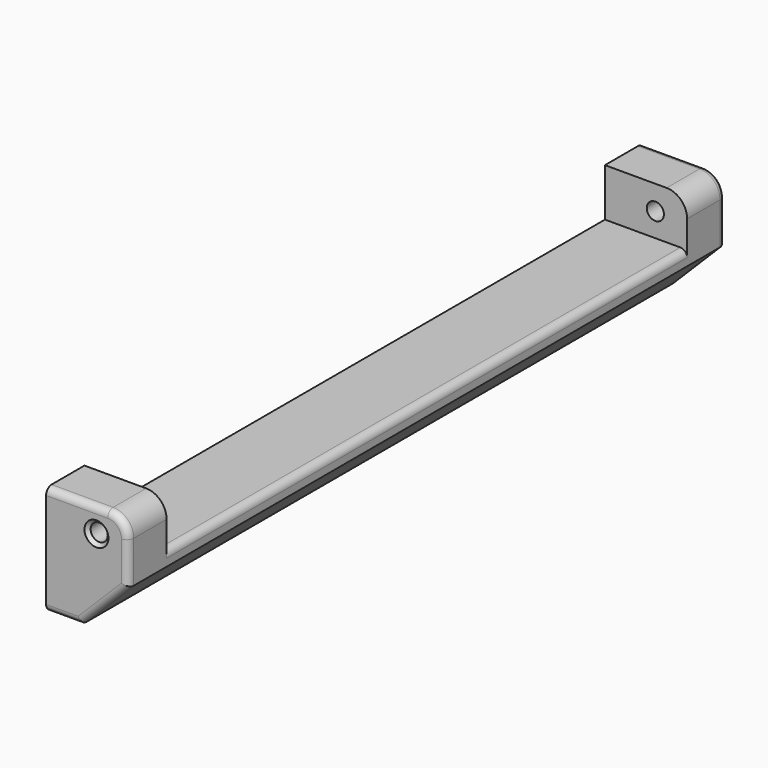
from build123d import *

# Parameters (mm, degrees)
PAD013_DEPTH            = 12
CHAMFER013_SIZE         = 6.9
FILLET028_R             = 1
FILLET027_R             = 3
FILLET029_R             = 1
SKETCH052_R             = 1.25
POCKET020_DEPTH         = 109.001
CHAMFER014_SIZE         = 0.5
FILLET031_R             = 1
BODY012_PLACEMENT_ANGLE = 180


with BuildPart() as part:
    # Sketch051 → Pad013 (new body)
    with BuildSketch(Plane.YZ.offset(37)):
        Polygon((-48, 6), (-41, 6), (-41, 13), (54, 13), (54, 6), (61, 6), (61, 22), (-48, 22), align=None)
    extrude(amount=PAD013_DEPTH)

    # Chamfer013
    chamfer013_edges = [part.edges().sort_by_distance(p)[0] for p in [
        (49, 6.5, 22),
    ]]
    chamfer(chamfer013_edges, length=CHAMFER013_SIZE)

    # Fillet028
    fillet028_edges = [part.edges().sort_by_distance(p)[0] for p in [
        (49, 6.5, 13),
    ]]
    fillet(fillet028_edges, radius=FILLET028_R)

    # Fillet027
    fillet027_edges = [part.edges().sort_by_distance(p)[0] for p in [
        (49, 57.5, 6),
        (49, -44.5, 6),
    ]]
    fillet(fillet027_edges, radius=FILLET027_R)

    # Fillet029
    fillet029_edges = [part.edges().sort_by_distance(p)[0] for p in [
        (41.5, 61, 6),
        (48.12132, 61, 6.87868),
        (49, 61, 12.05),
        (45.55, 61, 18.55),
        (39.55, 61, 22),
    ]]
    fillet(fillet029_edges, radius=FILLET029_R)

    # Sketch052 (on Face12 of Fillet029) → Pocket020 (cut, through all)
    with BuildSketch(Plane.ZX.offset(61)):
        with Locations((9.54001, 44.356239)):
            Circle(SKETCH052_R)
    extrude(amount=-POCKET020_DEPTH, mode=Mode.SUBTRACT)

    # Chamfer014
    chamfer014_edges = [part.edges().sort_by_distance(p)[0] for p in [
        (44.356239, 61, 8.29001),
        (44.356239, -48, 8.29001),
    ]]
    chamfer(chamfer014_edges, length=CHAMFER014_SIZE)

    # Fillet031
    fillet031_edges = [part.edges().sort_by_distance(p)[0] for p in [
        (41.5, -48, 6),
        (48.12132, -48, 6.87868),
        (49, -48, 12.05),
        (45.55, -48, 18.55),
        (39.55, -48, 22),
    ]]
    fillet(fillet031_edges, radius=FILLET031_R)


with BuildPart() as part_1:
    # Body012 placement: moved
    add(part.part.moved(Location((0, 12.98, 9.09))).rotate(Axis((0, 12.98, 9.09), (1, 0, 0)), BODY012_PLACEMENT_ANGLE))


solid = part_1.part
